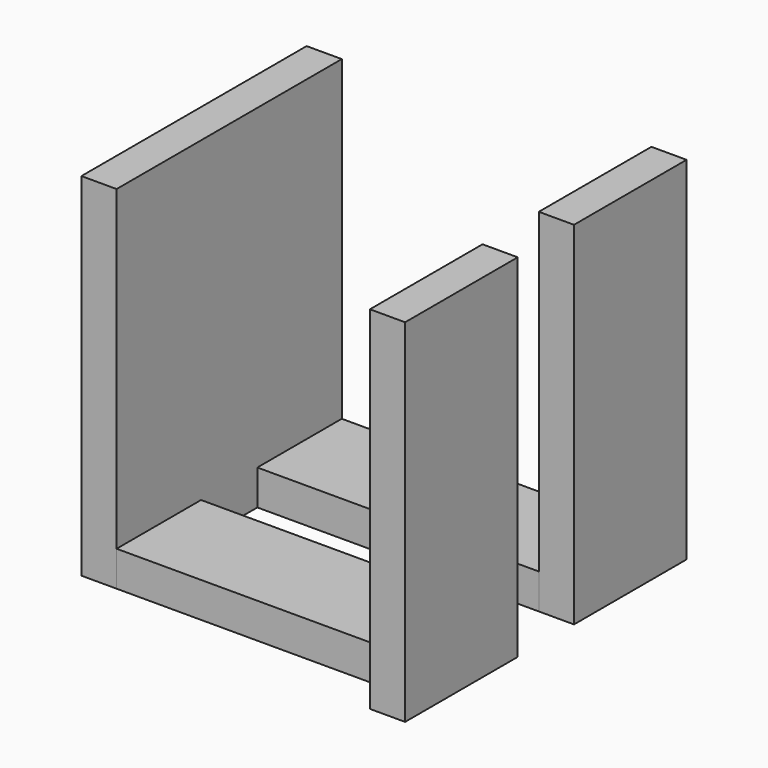
from build123d import *

# Parameters (mm, degrees)
F1_W     = 1.6
F1_H     = 1.6
F1_H_2   = 4.8
F2_DEPTH = 16
F1_H_3   = 3.2
F1_W_2   = 12.8
F3_DEPTH = 1.6


with BuildPart() as f2:
    # F1 (on Top) → F2 (new body)
    with BuildSketch(Plane.XY):
        with Locations((7.2, -7.2)):
            Rectangle(F1_W, F1_H)
        with Locations((7.2, -4)):
            Rectangle(F1_W, F1_H_2)
    extrude(amount=F2_DEPTH)


with BuildPart() as f2b:
    # F1 (on Top) → F2, piece 2 (new body)
    with BuildSketch(Plane.XY):
        with Locations((-7.2, -4)):
            Rectangle(F1_W, F1_H_2)
        with Locations((-7.2, 0)):
            Rectangle(F1_W, F1_H_3)
        with Locations((-7.2, 4)):
            Rectangle(F1_W, F1_H_2)
    extrude(amount=F2_DEPTH)


with BuildPart() as f2c:
    # F1 (on Top) → F2, piece 3 (new body)
    with BuildSketch(Plane.XY):
        with Locations((7.2, 4)):
            Rectangle(F1_W, F1_H_2)
        with Locations((7.2, 7.2)):
            Rectangle(F1_W, F1_H)
    extrude(amount=F2_DEPTH)


with BuildPart() as f3:
    # F1 (on Top) → F3 (new body)
    with BuildSketch(Plane.XY):
        with Locations((0, 4)):
            Rectangle(F1_W_2, F1_H_2)
    extrude(amount=F3_DEPTH)


with BuildPart() as f3b:
    # F1 (on Top) → F3, piece 2 (new body)
    with BuildSketch(Plane.XY):
        with Locations((0, -4)):
            Rectangle(F1_W_2, F1_H_2)
    extrude(amount=F3_DEPTH)


solid = Compound([f2.part, f2b.part, f2c.part, f3.part, f3b.part])
